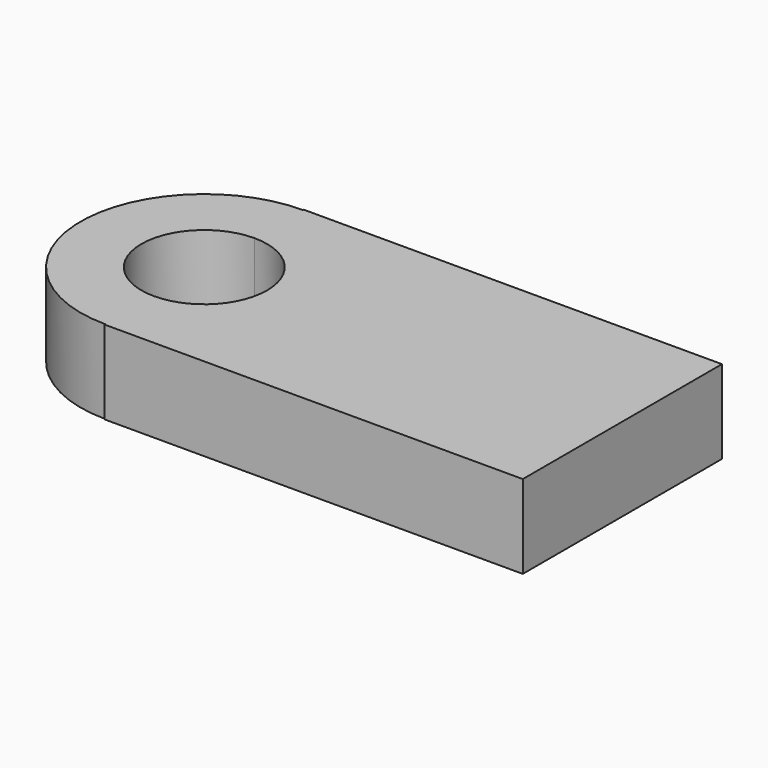
from build123d import *

# Parameters (mm, degrees)
F1_DEPTH = 25.4


with BuildPart() as f1:
    # F0 (on Top) → F1 (new body)
    with BuildSketch(Plane.XY):
        with BuildLine():
            Line((-63.5961517692, -37.6021821231), (-63.5961517692, -37.8618910909))
            Line((-63.5961517692, -37.8618910909), (63.5961517692, -37.8618910909))
            Line((63.5961517692, -37.8618910909), (63.5961517692, 37.8618910909))
            Line((63.5961517692, 37.8618910909), (-63.5961517692, 37.8618910909))
            Line((-63.5961517692, 37.8618910909), (-63.5961517692, 37.6021821231))
            ThreePointArc((-63.5961517692, 37.6021821231), (-37.0073938025, 26.5887579667), (-25.993969646, 0))
            ThreePointArc((-25.993969646, 0), (-37.0073938025, -26.5887579667), (-63.5961517692, -37.6021821231))
        make_face()
        with BuildLine():
            ThreePointArc((-63.5961517692, 37.6021821231), (-101.1983338923, 0), (-63.5961517692, -37.6021821231))
            Line((-63.5961517692, -37.6021821231), (-63.5961517692, -19.1149251528))
            ThreePointArc((-63.5961517692, -19.1149251528), (-82.711076922, 0), (-63.5961517692, 19.1149251528))
            Line((-63.5961517692, 19.1149251528), (-63.5961517692, 37.6021821231))
        make_face()
        with BuildLine():
            Line((-63.5961517692, -19.1149251528), (-63.5961517692, -37.6021821231))
            ThreePointArc((-63.5961517692, -37.6021821231), (-37.0073938025, -26.5887579667), (-25.993969646, 0))
            ThreePointArc((-25.993969646, 0), (-37.0073938025, 26.5887579667), (-63.5961517692, 37.6021821231))
            Line((-63.5961517692, 37.6021821231), (-63.5961517692, 19.1149251528))
            ThreePointArc((-63.5961517692, 19.1149251528), (-50.0798585717, 13.5162931974), (-44.4812266163, 0))
            ThreePointArc((-44.4812266163, 0), (-50.0798585717, -13.5162931974), (-63.5961517692, -19.1149251528))
        make_face()
    extrude(amount=F1_DEPTH)


solid = f1.part
